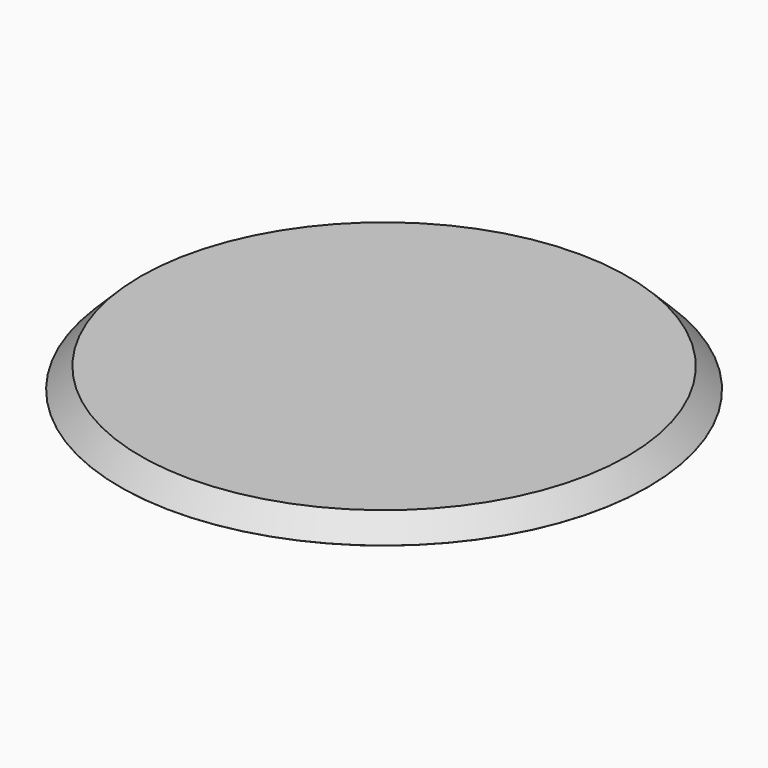
from build123d import *

# Parameters (mm, degrees)
SKETCH_R     = 38.5
PAD_DEPTH    = 3
CHAMFER_SIZE = 2.99


with BuildPart() as part:
    # Sketch → Pad (new body)
    with BuildSketch(Plane.XY):
        Circle(SKETCH_R)
    extrude(amount=PAD_DEPTH)

    # Chamfer
    chamfer_edges = [part.edges().sort_by_distance(p)[0] for p in [
        (-38.5, 0, 3),
    ]]
    chamfer(chamfer_edges, length=CHAMFER_SIZE)


solid = part.part
